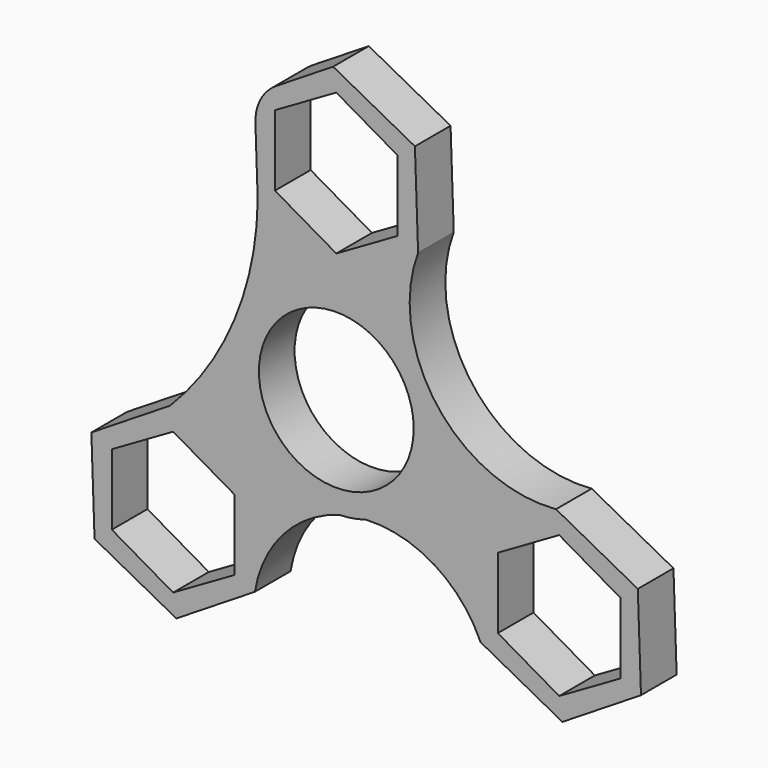
from build123d import *

# Parameters (mm, degrees)
F0_R     = 11.0236
F1_DEPTH = 6.35


with BuildPart() as f1:
    # F0 (on Front) → F1 (new body)
    with BuildSketch(Plane.XZ):
        with BuildLine():
            ThreePointArc((0.411762, -14.281565), (-10.247334, 9.956144), (14.2875, 0))
            ThreePointArc((14.2875, 0), (11.506339, -8.469759), (4.2456, -13.642124))
            ThreePointArc((4.2456, -13.642124), (13.964247, -16.138772), (20.553649, -23.706146))
            Line((20.553649, -23.706146), (20.099867, -10.515722))
            Line((20.099867, -10.515722), (31.296218, -3.527523))
            ThreePointArc((31.296218, -3.527523), (14.372183, 3.948547), (11.650133, 22.248957))
            Line((11.650133, 22.248957), (0.453782, 15.260758))
            Line((0.453782, 15.260758), (-11.196351, 21.462983))
            ThreePointArc((-11.196351, 21.462983), (-14.534473, 5.294597), (-23.696396, -8.439265))
            Line((-23.696396, -8.439265), (-12.046262, -14.64149))
            Line((-12.046262, -14.64149), (-11.59248, -27.831914))
            ThreePointArc((-11.59248, -27.831914), (-7.55802, -19.313591), (0.411762, -14.281565))
        make_face()
        with BuildLine():
            ThreePointArc((4.2456, -13.642124), (2.310234, -13.851245), (0.411762, -14.281565))
            ThreePointArc((0.411762, -14.281565), (2.350527, -14.092824), (4.2456, -13.642124))
        make_face()
        Polygon((-22.788831, -34.820113), (-11.59248, -27.831914), (-12.046262, -14.64149), (-23.696396, -8.439265), (-34.892746, -15.427464), (-34.438964, -28.617888), align=None)
        Polygon((-14.505013, -26.674344), (-23.242613, -31.719), (-31.980213, -26.674344), (-31.980213, -16.585033), (-23.242613, -11.540377), (-14.505013, -16.585033), align=None, mode=Mode.SUBTRACT)
        Polygon((20.099867, -10.515722), (20.553649, -23.706146), (32.203782, -29.90837), (43.400133, -22.920172), (42.946351, -9.729748), (31.296218, -3.527523), align=None)
        Polygon((31.75, -6.628635), (40.4876, -11.673291), (40.4876, -21.762602), (31.75, -26.807258), (23.0124, -21.762602), (23.0124, -11.673291), align=None, mode=Mode.SUBTRACT)
        with BuildLine():
            Line((-11.524083, 30.989401), (-11.196351, 21.462983))
            Line((-11.196351, 21.462983), (0.453782, 15.260758))
            Line((0.453782, 15.260758), (11.650133, 22.248957))
            Line((11.650133, 22.248957), (11.196351, 35.439381))
            Line((11.196351, 35.439381), (-0.453782, 41.641606))
            Line((-0.453782, 41.641606), (-8.540036, 36.594574))
            ThreePointArc((-8.540036, 36.594574), (-10.78301, 34.191774), (-11.524083, 30.989401))
        make_face()
        Polygon((0, 38.540494), (8.7376, 33.495838), (8.7376, 23.406527), (0, 18.361871), (-8.7376, 23.406527), (-8.7376, 33.495838), align=None, mode=Mode.SUBTRACT)
        with BuildLine():
            ThreePointArc((4.2456, -13.642124), (11.506339, -8.469759), (14.2875, 0))
            ThreePointArc((14.2875, 0), (-10.247334, 9.956144), (0.411762, -14.281565))
            ThreePointArc((0.411762, -14.281565), (2.310234, -13.851245), (4.2456, -13.642124))
        make_face()
        Circle(F0_R, mode=Mode.SUBTRACT)
    extrude(amount=F1_DEPTH)


solid = f1.part
